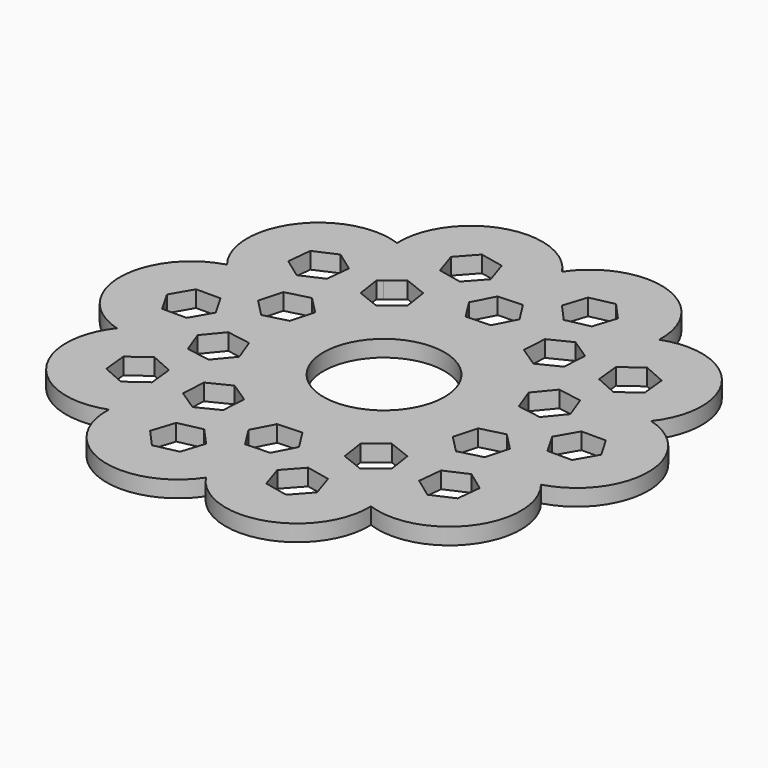
from build123d import *

# Parameters (mm, degrees)
F0_R     = 11
F1_DEPTH = 3


with BuildPart() as f1:
    # F0 (on Top) → F1 (new body)
    with BuildSketch(Plane.XY):
        with BuildLine():
            ThreePointArc((23.7810725764, 32.7823697802), (14.799332437, 45.661578591), (-0.0297016333, 40.4996580122))
            ThreePointArc((-0.0297016333, 40.4996580122), (-14.8662910452, 45.6398224203), (-23.8291308285, 32.7474534162))
            ThreePointArc((-23.8291308285, 32.7474534162), (-38.8534966348, 28.1852053257), (-38.5266419697, 12.4868346603))
            ThreePointArc((-38.5266419697, 12.4868346603), (-47.9999870917, -0.0352022235), (-38.5082853508, -12.543330524))
            ThreePointArc((-38.5082853508, -12.543330524), (-38.8121139391, -28.2421637198), (-23.7810725764, -32.7823697802))
            ThreePointArc((-23.7810725764, -32.7823697802), (-14.799332437, -45.661578591), (0.0297016333, -40.4996580122))
            ThreePointArc((0.0297016333, -40.4996580122), (14.8662910452, -45.6398224203), (23.8291308285, -32.7474534162))
            ThreePointArc((23.8291308285, -32.7474534162), (38.8534966348, -28.1852053257), (38.5266419697, -12.4868346603))
            ThreePointArc((38.5266419697, -12.4868346603), (47.9999870917, 0.0352022235), (38.5082853508, 12.543330524))
            ThreePointArc((38.5082853508, 12.543330524), (38.8121139391, 28.2421637198), (23.7810725764, 32.7823697802))
        make_face()
        Polygon((-9.4205159653, -29.0658806367), (-6.4434088175, -32.3674206355), (-7.8140727542, -36.5964410547), (-12.1618438387, -37.5239214751), (-15.1389509865, -34.2223814763), (-13.7682870498, -29.9933610571), align=None, mode=Mode.SUBTRACT)
        Polygon((-24.7058534949, -17.9775510382), (-24.2379197394, -22.3984526808), (-27.8325659918, -25.0141460217), (-31.8951459997, -23.2089377199), (-32.3630797552, -18.7880360772), (-28.7684335028, -16.1723427364), align=None, mode=Mode.SUBTRACT)
        Polygon((-30.5543947105, -0.0224079775), (-32.7743691374, -3.8740370974), (-37.2199650146, -3.8772974079), (-39.4455864649, -0.0289285984), (-37.225612038, 3.8227005214), (-32.7800161608, 3.8259608319), align=None, mode=Mode.SUBTRACT)
        Polygon((-14.445933389, -15.8846642147), (-10.7412099068, -18.3419711254), (-11.0169383754, -22.7790092304), (-14.9973903261, -24.7587404246), (-18.7021138083, -22.3014335138), (-18.4263853398, -17.8643954088), align=None, mode=Mode.SUBTRACT)
        Polygon((-21.0237769743, -4.3598566979), (-19.4709614803, -8.5254415758), (-22.3020560592, -11.95301168), (-26.685966132, -11.2149969062), (-28.2387816261, -7.0494120284), (-25.4076870472, -3.6218419242), align=None, mode=Mode.SUBTRACT)
        Polygon((9.4631384714, -29.052031745), (13.8122652692, -29.9731340357), (15.1891306849, -34.2001394722), (12.2168693028, -37.506042618), (7.867742505, -36.5849403273), (6.4908770893, -32.3579348908), align=None, mode=Mode.SUBTRACT)
        Polygon((-2.3502342483, -21.3420699013), (2.0913187707, -21.1524911258), (4.4762753158, -24.9041994849), (2.4196788418, -28.8454866194), (-2.0218741773, -29.0350653948), (-4.4068307223, -25.2833570358), align=None, mode=Mode.SUBTRACT)
        Polygon((10.6431744937, -18.6475302759), (14.1250347592, -15.8834784629), (18.2597039794, -17.5168319988), (18.912512934, -21.9142373476), (15.4306526685, -24.6782891606), (11.2959834483, -23.0449356247), align=None, mode=Mode.SUBTRACT)
        Polygon((19.5712523273, -8.8302678913), (20.7634675619, -4.5475168867), (25.0685463473, -3.4386300643), (28.1814098981, -6.6124942466), (26.9891946635, -10.8952452512), (22.6841158781, -12.0041320736), align=None, mode=Mode.SUBTRACT)
        Polygon((24.7321956523, -17.9412941689), (28.7921234848, -16.1301289835), (32.390602462, -18.7405470312), (31.9291536068, -23.1621302644), (27.8692257743, -24.9732954497), (24.2707467971, -22.362877402), align=None, mode=Mode.SUBTRACT)
        Polygon((-24.7321956523, 17.9412941689), (-28.7921234848, 16.1301289835), (-32.390602462, 18.7405470312), (-31.9291536068, 23.1621302644), (-27.8692257743, 24.9732954497), (-24.2707467971, 22.362877402), align=None, mode=Mode.SUBTRACT)
        Polygon((-19.5712523273, 8.8302678913), (-20.7634675619, 4.5475168867), (-25.0685463473, 3.4386300643), (-28.1814098981, 6.6124942466), (-26.9891946635, 10.8952452512), (-22.6841158781, 12.0041320736), align=None, mode=Mode.SUBTRACT)
        Circle(F0_R, mode=Mode.SUBTRACT)
        Polygon((-10.6431744937, 18.6475302759), (-14.1250347592, 15.8834784629), (-18.2597039794, 17.5168319988), (-18.912512934, 21.9142373476), (-18.143609215, 22.524626495), (-15.4306526685, 24.6782891606), (-11.2959834483, 23.0449356247), align=None, mode=Mode.SUBTRACT)
        Polygon((2.3502342483, 21.3420699013), (-2.0913187707, 21.1524911258), (-4.4762753158, 24.9041994849), (-2.4196788418, 28.8454866194), (2.0218741773, 29.0350653948), (4.4068307223, 25.2833570358), align=None, mode=Mode.SUBTRACT)
        Polygon((-9.4631384714, 29.052031745), (-13.8122652692, 29.9731340357), (-15.1891306849, 34.2001394722), (-12.2168693028, 37.506042618), (-7.867742505, 36.5849403273), (-6.4908770893, 32.3579348908), align=None, mode=Mode.SUBTRACT)
        Polygon((26.685966132, 11.2149969062), (28.2387816261, 7.0494120284), (25.4076870472, 3.6218419242), (21.0237769743, 4.3598566979), (19.4709614803, 8.5254415758), (22.3020560592, 11.95301168), align=None, mode=Mode.SUBTRACT)
        Polygon((14.445933389, 15.8846642147), (10.7412099068, 18.3419711254), (11.0169383754, 22.7790092304), (14.9973903261, 24.7587404246), (18.7021138083, 22.3014335138), (18.4263853398, 17.8643954088), align=None, mode=Mode.SUBTRACT)
        Polygon((39.4455864649, 0.0289285984), (37.225612038, -3.8227005214), (32.7800161608, -3.8259608319), (30.5543947105, 0.0224079775), (32.7743691374, 3.8740370974), (37.2199650146, 3.8772974079), align=None, mode=Mode.SUBTRACT)
        Polygon((24.7058534949, 17.9775510382), (24.2379197394, 22.3984526808), (27.8325659918, 25.0141460217), (31.8951459997, 23.2089377199), (32.3630797552, 18.7880360772), (28.7684335028, 16.1723427364), align=None, mode=Mode.SUBTRACT)
        Polygon((9.4205159653, 29.0658806367), (6.4434088175, 32.3674206355), (7.8140727542, 36.5964410547), (12.1618438387, 37.5239214751), (15.1389509865, 34.2223814763), (13.7682870498, 29.9933610571), align=None, mode=Mode.SUBTRACT)
    extrude(amount=F1_DEPTH)


solid = f1.part
